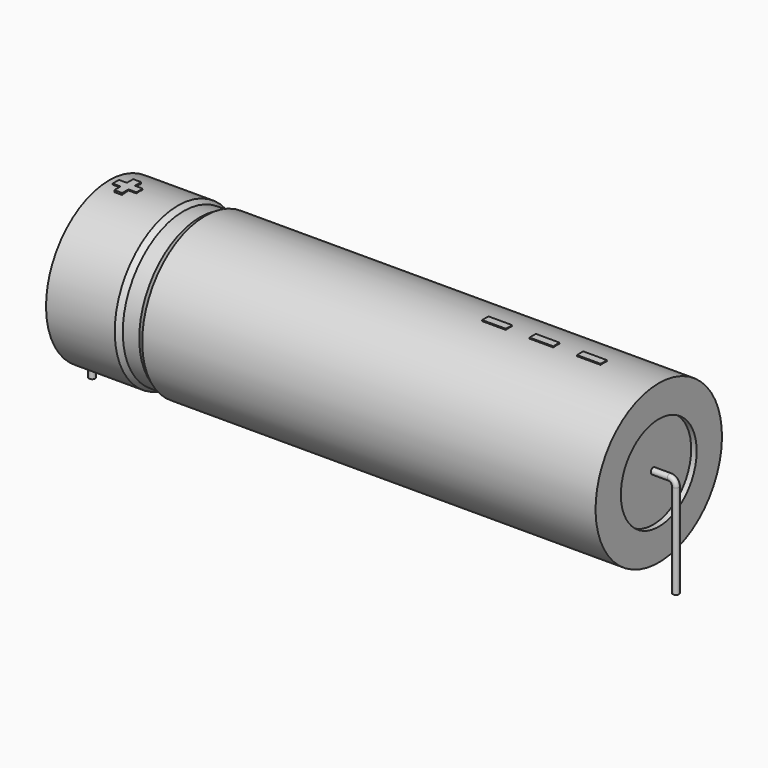
from build123d import *

# Parameters (mm, degrees)
SKETCH_R    = 0.45
SKETCH004_W = 3.45
SKETCH004_H = 1.15
PAD_DEPTH   = 11.615


with BuildPart() as sweep_body:
    # Sweep: sweep along a path in Sketch001
    with BuildLine(Plane.XZ) as sweep_path:
        Line((0, -3), (0, 10.7))
        ThreePointArc((0, 10.7), (0.263606, 11.336399), (0.900007, 11.6))
        Line((0.900007, 11.6), (84.1, 11.6))
        ThreePointArc((84.1, 11.6), (84.736396, 11.336396), (85, 10.7))
        Line((85, 10.7), (85, -3))
    # Sketch → Sweep (sweep)
    with BuildSketch(Plane.XY.offset(-2)):
        Circle(SKETCH_R)
    sweep(path=sweep_path.line)


with BuildPart() as revolution:
    # Sketch002 → Revolution (revolve)
    with BuildSketch(Plane.XZ):
        Polygon((2.5, 23.1), (2.5, 18.5), (82.5, 18.5), (82.5, 23.1), (16.5, 23.1), (15.7, 22.64), (13.3, 22.64), (12.5, 23.1), align=None)
    revolve(axis=Axis((6.97588, 0, 11.6), (1, 0, 0)))


with BuildPart() as revolution001:
    # Sketch003 → Revolution001 (revolve)
    with BuildSketch(Plane.XZ):
        Polygon((3.3, 22.64), (7.3, 22.64), (7.3, 12.75), (77.7, 12.75), (77.7, 22.64), (81.7, 22.64), (81.7, 11.6), (3.3, 11.6), align=None)
    revolve(axis=Axis((6.97588, 0, 11.6), (1, 0, 0)))


with BuildPart() as pad:
    # Sketch004 → Pad (new body)
    with BuildSketch(Plane.XY.offset(11.6)):
        with Locations((72.775, 0)):
            Rectangle(SKETCH004_W, SKETCH004_H)
        with Locations((65.875, 0)):
            Rectangle(SKETCH004_W, SKETCH004_H)
        with Locations((58.975, 0)):
            Rectangle(SKETCH004_W, SKETCH004_H)
        Polygon((4.61, 0.575), (3.46, 0.575), (3.46, -0.575), (4.61, -0.575), (4.61, -1.725), (5.76, -1.725), (5.76, -0.575), (6.91, -0.575), (6.91, 0.575), (5.76, 0.575), (5.76, 1.725), (4.61, 1.725), align=None)
    extrude(amount=PAD_DEPTH)


solid = Compound([sweep_body.part, revolution.part, revolution001.part, pad.part])
